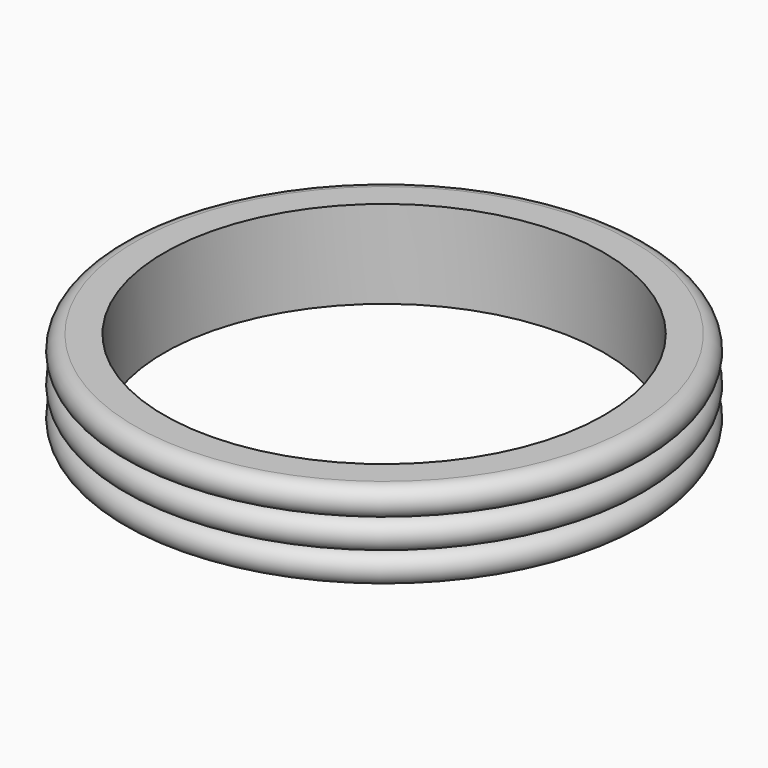
from build123d import *


with BuildPart() as f1:
    # F0 (on Front) → F1 (revolve)
    with BuildSketch(Plane.XZ):
        with BuildLine():
            Line((21.59, 3.81), (19.05, 3.81))
            Line((19.05, 3.81), (19.05, -3.81))
            Line((19.05, -3.81), (21.59, -3.81))
            ThreePointArc((21.59, -3.81), (22.86, -2.54), (21.59, -1.27))
            ThreePointArc((21.59, -1.27), (22.86, 0), (21.59, 1.27))
            ThreePointArc((21.59, 1.27), (22.86, 2.54), (21.59, 3.81))
        make_face()
    revolve(axis=Axis((0, 0, 3.287177), (0, 0, -1)))


solid = f1.part
